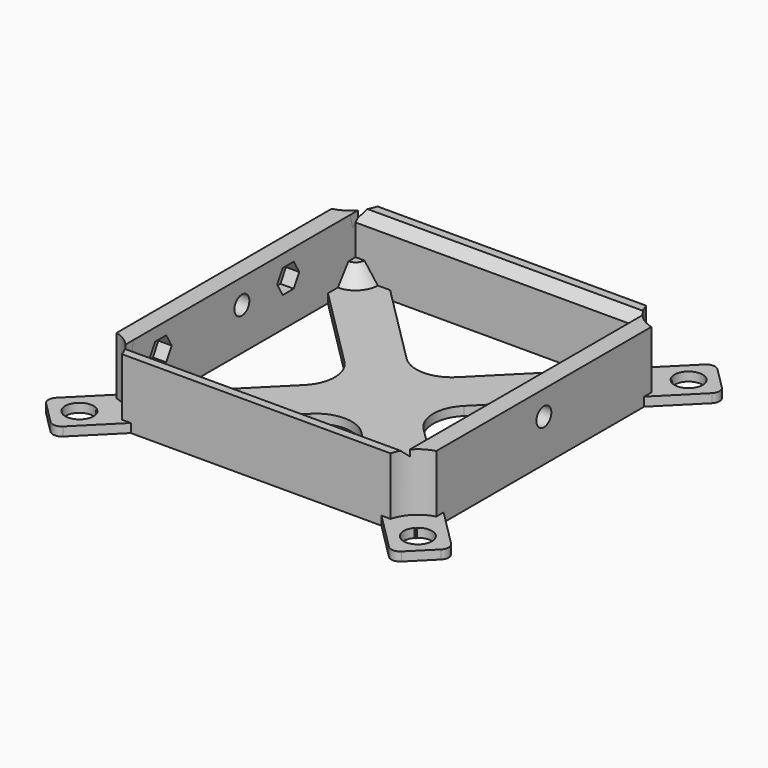
from build123d import *

# Parameters (mm, degrees)
CYLINDER_R               = 2.1
CYLINDER_DEPTH           = 73
PRISM_DEPTH              = 64
PRISM_ROLL_ANGLE         = 90
PRISM_PITCH_ANGLE        = -14.999988
PRISM_PLACEMENT_ANGLE    = 90
PRISM001_DEPTH           = 64
PRISM001_ROLL_ANGLE      = -90
PRISM001_PITCH_ANGLE     = -14.999988
PRISM001_PLACEMENT_ANGLE = -90
PRISM002_DEPTH           = 3
PRISM003_DEPTH           = 3
CYLINDER001_R            = 1.8
CYLINDER001_DEPTH        = 6
CYLINDER002_R            = 1.8
CYLINDER002_DEPTH        = 6
CUBE001_W                = 64
CUBE001_H                = 64
CUBE001_DEPTH            = 15
CUBE_W                   = 72
CUBE_H                   = 72
CUBE_DEPTH               = 15
SKETCH001_R              = 3.175
PAD_DEPTH                = 2
SKETCH_R                 = 8.125
POCKET_DEPTH             = 13
REVOLUTION_ANGLE         = -90


with BuildPart() as cylinder:
    # cylinder → cylinder (new body)
    with BuildSketch(Plane(origin=(-36.5, 0, -7.5), x_dir=(0, 1, 0), z_dir=(1, 0, 0))):
        Circle(CYLINDER_R)
    extrude(amount=CYLINDER_DEPTH)


with BuildPart() as prism:
    # prism → prism (new body)
    with BuildSketch(Plane.XY):
        Polygon((3, 0), (-1.5, 2.598076), (-1.5, -2.598076), align=None)
    extrude(amount=PRISM_DEPTH)


with BuildPart() as prism_1:
    # prism roll: moved
    add(prism.part.rotate(Axis((0, 0, 0), (1, 0, 0)), PRISM_ROLL_ANGLE))


with BuildPart() as prism_2:
    # prism pitch: moved
    add(prism_1.part.rotate(Axis((0, 0, 0), (0, 1, 0)), PRISM_PITCH_ANGLE))


with BuildPart() as prism_3:
    # prism placement: moved
    add(prism_2.part.moved(Location((-32.000004, 32, -2))).rotate(Axis((-32.000004, 32, -2), (0, 0, 1)), PRISM_PLACEMENT_ANGLE))


with BuildPart() as prism001:
    # prism001 → prism001 (new body)
    with BuildSketch(Plane.XY):
        Polygon((3, 0), (-1.5, 2.598076), (-1.5, -2.598076), align=None)
    extrude(amount=PRISM001_DEPTH)


with BuildPart() as prism001_1:
    # prism001 roll: moved
    add(prism001.part.rotate(Axis((0, 0, 0), (1, 0, 0)), PRISM001_ROLL_ANGLE))


with BuildPart() as prism001_2:
    # prism001 pitch: moved
    add(prism001_1.part.rotate(Axis((0, 0, 0), (0, 1, 0)), PRISM001_PITCH_ANGLE))


with BuildPart() as prism001_3:
    # prism001 placement: moved
    add(prism001_2.part.moved(Location((-32.000004, -32, -2))).rotate(Axis((-32.000004, -32, -2), (0, 0, 1)), PRISM001_PLACEMENT_ANGLE))


with BuildPart() as prism002:
    # prism002 → prism002 (new body)
    with BuildSketch(Plane(origin=(-35, 13.05, -7.5), x_dir=(0, 1, 0), z_dir=(1, 0, 0))):
        Polygon((3.1, 0), (1.55, 2.684679), (-1.55, 2.684679), (-3.1, 0), (-1.55, -2.684679), (1.55, -2.684679), align=None)
    extrude(amount=PRISM002_DEPTH)


with BuildPart() as prism003:
    # prism003 → prism003 (new body)
    with BuildSketch(Plane(origin=(-35, -22.85, -7.5), x_dir=(0, 1, 0), z_dir=(1, 0, 0))):
        Polygon((3.1, 0), (1.55, 2.684679), (-1.55, 2.684679), (-3.1, 0), (-1.55, -2.684679), (1.55, -2.684679), align=None)
    extrude(amount=PRISM003_DEPTH)


with BuildPart() as cylinder001:
    # cylinder001 → cylinder001 (new body)
    with BuildSketch(Plane(origin=(-36.5, 13.05, -7.5), x_dir=(0, 1, 0), z_dir=(1, 0, 0))):
        Circle(CYLINDER001_R)
    extrude(amount=CYLINDER001_DEPTH)


with BuildPart() as cylinder002:
    # cylinder002 → cylinder002 (new body)
    with BuildSketch(Plane(origin=(-36.5, -22.85, -7.5), x_dir=(0, 1, 0), z_dir=(1, 0, 0))):
        Circle(CYLINDER002_R)
    extrude(amount=CYLINDER002_DEPTH)


with BuildPart() as group:
    # cube001 → cube001 (new body)
    with BuildSketch(Plane(origin=(-32, -32, -17), x_dir=(1, 0, 0), z_dir=(0, 0, 1))):
        with Locations((32, 32)):
            Rectangle(CUBE001_W, CUBE001_H)
    extrude(amount=CUBE001_DEPTH)

    # Group: union cylinder, prism, prism001, prism002, prism003, cylinder001, cylinder002
    add(cylinder.part)
    add(prism_3.part)
    add(prism001_3.part)
    add(prism002.part)
    add(prism003.part)
    add(cylinder001.part)
    add(cylinder002.part)


with BuildPart() as base_square:
    # cube → cube (new body)
    with BuildSketch(Plane(origin=(-36, -36, -17), x_dir=(1, 0, 0), z_dir=(0, 0, 1))):
        with Locations((36, 36)):
            Rectangle(CUBE_W, CUBE_H)
    extrude(amount=CUBE_DEPTH)

    # difference: cut Group
    add(group.part, mode=Mode.SUBTRACT)

    # Sketch001 → Pad (new body)
    with BuildSketch(Plane(origin=(0, 0, -17), x_dir=(1, 0, 0), z_dir=(0, 0, -1))):
        with BuildLine():
            Line((-44.463961, 36.685786), (-13.435029, 5.656854))
            ThreePointArc((-13.435029, -5.656854), (-11.091883, 0), (-13.435029, 5.656854))
            Line((-13.435029, -5.656854), (-44.463961, -36.685786))
            ThreePointArc((-44.463961, -36.685786), (-45.049747, -38.1), (-44.463961, -39.514214))
            Line((-44.463961, -39.514214), (-39.514214, -44.463961))
            ThreePointArc((-39.514214, -44.463961), (-38.1, -45.049747), (-36.685786, -44.463961))
            Line((-36.685786, -44.463961), (-5.656854, -13.435029))
            ThreePointArc((5.656854, -13.435029), (0, -11.091883), (-5.656854, -13.435029))
            Line((5.656854, -13.435029), (36.685786, -44.463961))
            ThreePointArc((36.685786, -44.463961), (38.1, -45.049747), (39.514214, -44.463961))
            Line((39.514214, -44.463961), (44.463961, -39.514214))
            ThreePointArc((44.463961, -39.514214), (45.049747, -38.1), (44.463961, -36.685786))
            Line((44.463961, -36.685786), (13.435029, -5.656854))
            ThreePointArc((13.435029, 5.656854), (11.091883, 0), (13.435029, -5.656854))
            Line((13.435029, 5.656854), (44.463961, 36.685786))
            ThreePointArc((44.463961, 36.685786), (45.049747, 38.1), (44.463961, 39.514214))
            Line((44.463961, 39.514214), (39.514214, 44.463961))
            ThreePointArc((39.514214, 44.463961), (38.1, 45.049747), (36.685786, 44.463961))
            Line((36.685786, 44.463961), (5.656854, 13.435029))
            ThreePointArc((-5.656854, 13.435029), (0, 11.091883), (5.656854, 13.435029))
            Line((-5.656854, 13.435029), (-36.685786, 44.463961))
            ThreePointArc((-36.685786, 44.463961), (-38.1, 45.049747), (-39.514214, 44.463961))
            Line((-39.514214, 44.463961), (-44.463961, 39.514214))
            ThreePointArc((-44.463961, 39.514214), (-45.049747, 38.1), (-44.463961, 36.685786))
        make_face()
        with Locations((-38.1, 38.1)):
            Circle(SKETCH001_R, mode=Mode.SUBTRACT)
        with Locations((38.1, 38.1)):
            Circle(SKETCH001_R, mode=Mode.SUBTRACT)
        with Locations((-38.1, -38.1)):
            Circle(SKETCH001_R, mode=Mode.SUBTRACT)
        with Locations((38.1, -38.1)):
            Circle(SKETCH001_R, mode=Mode.SUBTRACT)
    extrude(amount=-PAD_DEPTH)

    # Sketch (on Face21 of Pad) → Pocket (cut)
    with BuildSketch(Plane.XY.offset(-2)):
        with Locations((-38.1, -38.1)):
            Circle(SKETCH_R)
        with Locations((38.1, -38.1)):
            Circle(SKETCH_R)
        with Locations((38.1, 38.1)):
            Circle(SKETCH_R)
        with Locations((-38.1, 38.1)):
            Circle(SKETCH_R)
    extrude(amount=-POCKET_DEPTH, mode=Mode.SUBTRACT)

    # Sketch002 (on Face26 of Pocket) → Revolution (revolve)
    with BuildSketch(Plane.XZ.offset(-32)):
        Polygon((-32, -15), (-32, -11), (-30, -11), (-27, -15), align=None)
    revolve(axis=Axis((-32, 32, -9.56066), (0, 0, 1)), revolution_arc=REVOLUTION_ANGLE)


solid = base_square.part
